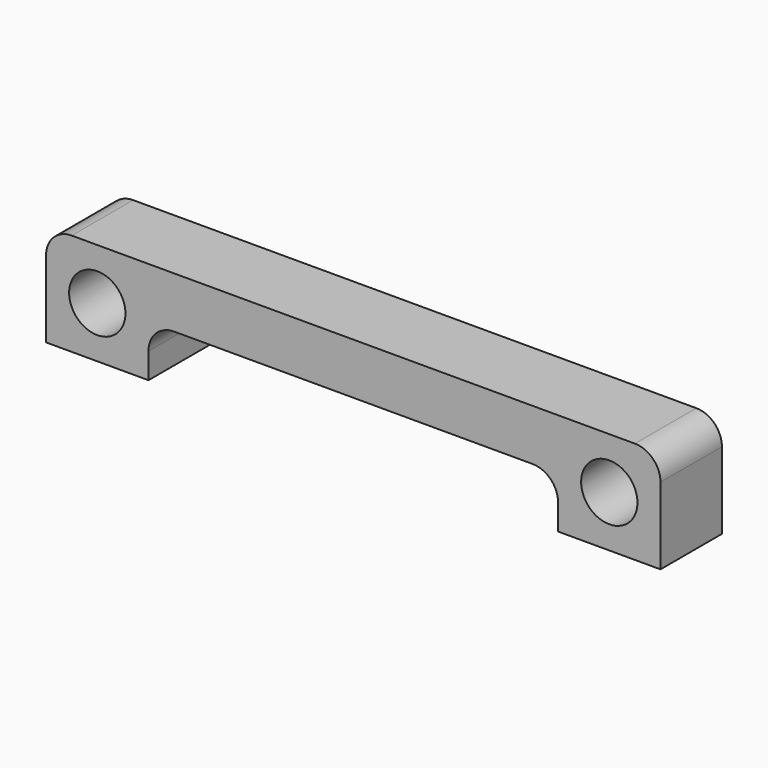
from build123d import *

# Parameters (mm, degrees)
F1_DEPTH = 38.1
F2_R     = 13.97
F3_DEPTH = 38.101


with BuildPart() as f1:
    # F0 (on Front) → F1 (new body)
    with BuildSketch(Plane.XZ):
        with BuildLine():
            Line((139.7, 25.4), (-139.7, 25.4))
            ThreePointArc((-139.7, 25.4), (-148.680256, 21.680256), (-152.4, 12.7))
            Line((-152.4, 12.7), (-152.4, -25.4))
            Line((-152.4, -25.4), (-101.6, -25.4))
            Line((-101.6, -25.4), (-101.6, -12.7))
            ThreePointArc((-101.6, -12.7), (-97.880256, -3.719744), (-88.9, 0))
            Line((-88.9, 0), (88.9, 0))
            ThreePointArc((88.9, 0), (97.880256, -3.719744), (101.6, -12.7))
            Line((101.6, -12.7), (101.6, -25.4))
            Line((101.6, -25.4), (152.4, -25.4))
            Line((152.4, -25.4), (152.4, 12.7))
            ThreePointArc((152.4, 12.7), (148.680256, 21.680256), (139.7, 25.4))
        make_face()
    extrude(amount=F1_DEPTH)

    # F2 (on face) → F3 (cut, through all)
    with BuildSketch(Plane.XZ.offset(38.1)):
        with Locations((-127, 0)):
            Circle(F2_R)
        with Locations((127, 0)):
            Circle(F2_R)
    extrude(amount=-F3_DEPTH, mode=Mode.SUBTRACT)


solid = f1.part
